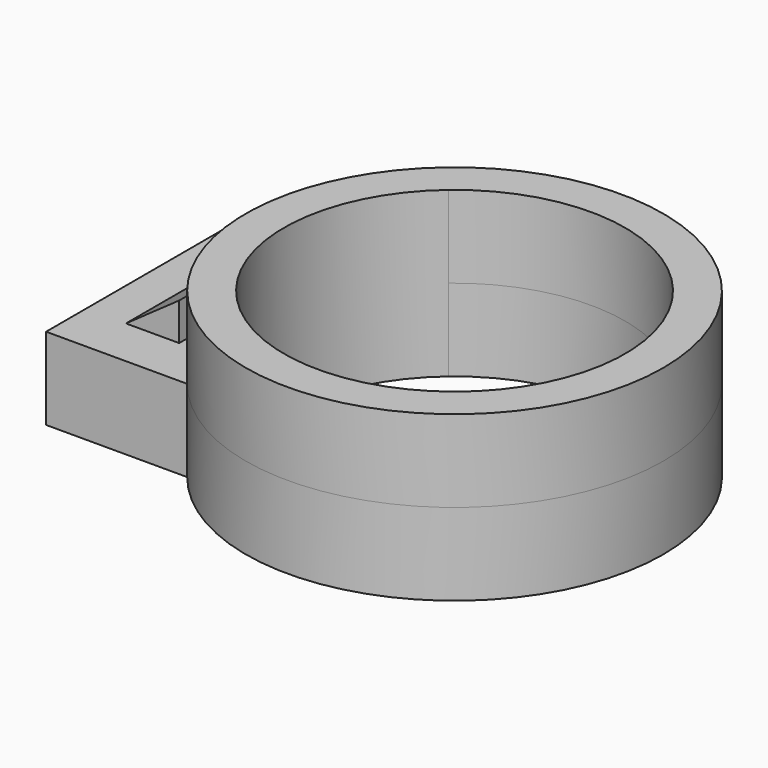
from build123d import *

# Parameters (mm, degrees)
F0_W     = 118.2169914246
F0_H     = 80.530397594
F1_DEPTH = 25.4
F3_DEPTH = 25.4
F4_DEPTH = 25.4
F5_DEPTH = 25.4
F7_DEPTH = 25.4


with BuildPart() as f1:
    # F0 (on Top) → F1 (new body)
    with BuildSketch(Plane.XY):
        Rectangle(F0_W, F0_H)
    extrude(amount=F1_DEPTH)

    # F2 (on face) → F3 (join)
    with BuildSketch(Plane.XY.offset(25.4)):
        with BuildLine():
            Line((0.9154370802, 40.265198797), (-15.4651362706, 40.265198797))
            ThreePointArc((-15.4651362706, 40.265198797), (-29.552276822, 0), (-15.4651362706, -40.265198797))
            Line((-15.4651362706, -40.265198797), (0.9154370802, -40.265198797))
            ThreePointArc((0.9154370802, -40.265198797), (-17.7417582816, 0), (0.9154370802, 40.265198797))
        make_face()
        with BuildLine():
            ThreePointArc((-15.4651362706, -40.265198797), (56.3653638478, -60.9650494998), (99.6246669611, 0))
            ThreePointArc((99.6246669611, 0), (56.3653638478, 60.9650494998), (-15.4651362706, 40.265198797))
            Line((-15.4651362706, 40.265198797), (0.9154370802, 40.265198797))
            ThreePointArc((0.9154370802, 40.265198797), (57.2250276939, 47.8870344321), (87.8141484207, 0))
            ThreePointArc((87.8141484207, 0), (57.2250276939, -47.8870344321), (0.9154370802, -40.265198797))
            Line((0.9154370802, -40.265198797), (-15.4651362706, -40.265198797))
        make_face()
    extrude(amount=F3_DEPTH)

    # F4 (cut): a face of the model
    f4_faces = [f1.faces().sort_by_distance(p)[0] for p in [
        (23.3312855694, 0, 25.4),
    ]]
    extrude(f4_faces, amount=-F4_DEPTH, mode=Mode.SUBTRACT)

    # F5 (add): a face of the model
    f5_faces = [f1.faces().sort_by_distance(p)[0] for p in [
        (-7.2748495952, 41.9952954883, 25.4),
    ]]
    extrude(f5_faces, amount=F5_DEPTH)


with BuildPart() as f7:
    # F6 (on Front) → F7 (new body)
    with BuildSketch(Plane.XZ):
        Polygon((-29.8266801983, 25.7757976651), (-29.8266801983, 37.3812280595), (-46.2938435376, 25.7757976651), align=None)
    extrude(amount=F7_DEPTH)


solid = Compound([f1.part, f7.part])
